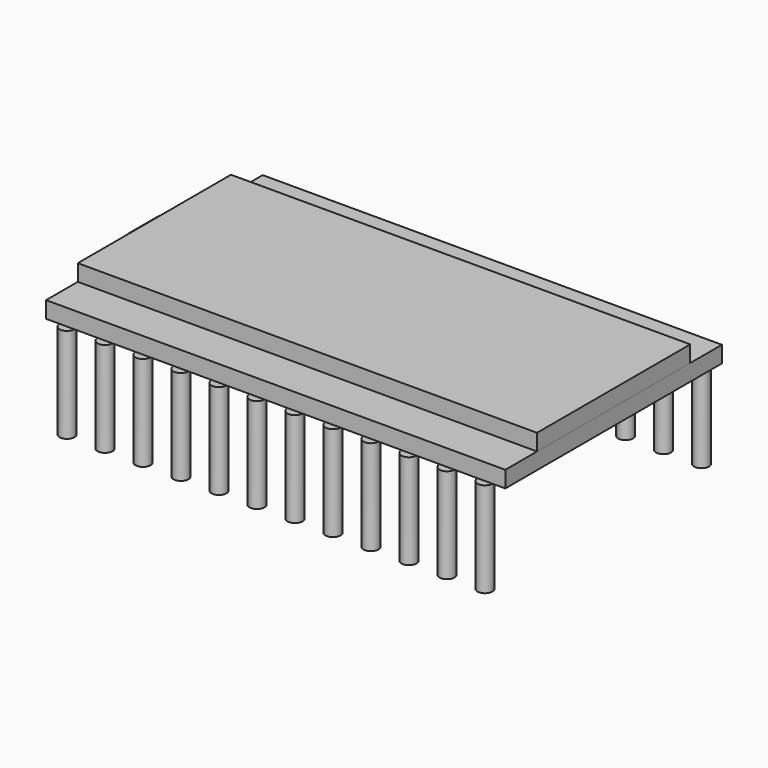
from build123d import *

# Parameters (mm, degrees)
SKETCH_W         = 30.7
SKETCH_H         = 18.1
EXTRUDE_DEPTH    = 1.1
SKETCH001_W      = 30.7
SKETCH001_H      = 12.8
EXTRUDE002_DEPTH = 1.1
SKETCH002_W      = 3.5
SKETCH002_H      = 1
EXTRUDE004_DEPTH = 0.75
FILLET_R         = 0.5
SKETCH003_R      = 0.5
EXTRUDE005_DEPTH = 6.35


with BuildPart() as extrude_body:
    # Sketch → Extrude (new body)
    with BuildSketch(Plane.XY):
        Rectangle(SKETCH_W, SKETCH_H)
    extrude(amount=EXTRUDE_DEPTH)


with BuildPart() as extrude002:
    # Sketch001 (on Face6 of Extrude) → Extrude002 (new body)
    with BuildSketch(Plane.XY.offset(1.1)):
        Rectangle(SKETCH001_W, SKETCH001_H)
    extrude(amount=EXTRUDE002_DEPTH)


with BuildPart() as fillet_body:
    # Sketch002 (on Face4 of Extrude) → Extrude004 (new body)
    with BuildSketch(Plane(origin=(-15.35, 0, 0), x_dir=(0, -1, 0), z_dir=(-1, 0, 0))):
        with Locations((0, 1.1)):
            Rectangle(SKETCH002_W, SKETCH002_H)
    extrude(amount=EXTRUDE004_DEPTH)

    # Fillet
    fillet_edges = [fillet_body.edges().sort_by_distance(p)[0] for p in [
        (-16.1, -1.75, 1.1),
        (-16.1, 1.75, 1.1),
    ]]
    fillet(fillet_edges, radius=FILLET_R)


with BuildPart() as extrude005:
    # Sketch003 → Extrude005 (new body)
    with BuildSketch(Plane.XY):
        with Locations((-13.95, 9.05)):
            Circle(SKETCH003_R)
        with Locations((-11.41, 9.05)):
            Circle(SKETCH003_R)
        with Locations((-8.87, 9.05)):
            Circle(SKETCH003_R)
        with Locations((-6.33, 9.05)):
            Circle(SKETCH003_R)
        with Locations((-3.79, 9.05)):
            Circle(SKETCH003_R)
        with Locations((-1.25, 9.05)):
            Circle(SKETCH003_R)
        with Locations((1.29, 9.05)):
            Circle(SKETCH003_R)
        with Locations((3.83, 9.05)):
            Circle(SKETCH003_R)
        with Locations((6.37, 9.05)):
            Circle(SKETCH003_R)
        with Locations((8.91, 9.05)):
            Circle(SKETCH003_R)
        with Locations((11.45, 9.05)):
            Circle(SKETCH003_R)
        with Locations((13.99, 9.05)):
            Circle(SKETCH003_R)
        with Locations((-13.95, -9.05)):
            Circle(SKETCH003_R)
        with Locations((-11.41, -9.05)):
            Circle(SKETCH003_R)
        with Locations((-8.87, -9.05)):
            Circle(SKETCH003_R)
        with Locations((-6.33, -9.05)):
            Circle(SKETCH003_R)
        with Locations((-3.79, -9.05)):
            Circle(SKETCH003_R)
        with Locations((-1.25, -9.05)):
            Circle(SKETCH003_R)
        with Locations((1.29, -9.05)):
            Circle(SKETCH003_R)
        with Locations((3.83, -9.05)):
            Circle(SKETCH003_R)
        with Locations((6.37, -9.05)):
            Circle(SKETCH003_R)
        with Locations((8.91, -9.05)):
            Circle(SKETCH003_R)
        with Locations((11.45, -9.05)):
            Circle(SKETCH003_R)
        with Locations((13.99, -9.05)):
            Circle(SKETCH003_R)
    extrude(amount=-EXTRUDE005_DEPTH)


solid = Compound([extrude_body.part, extrude002.part, fillet_body.part, extrude005.part])
